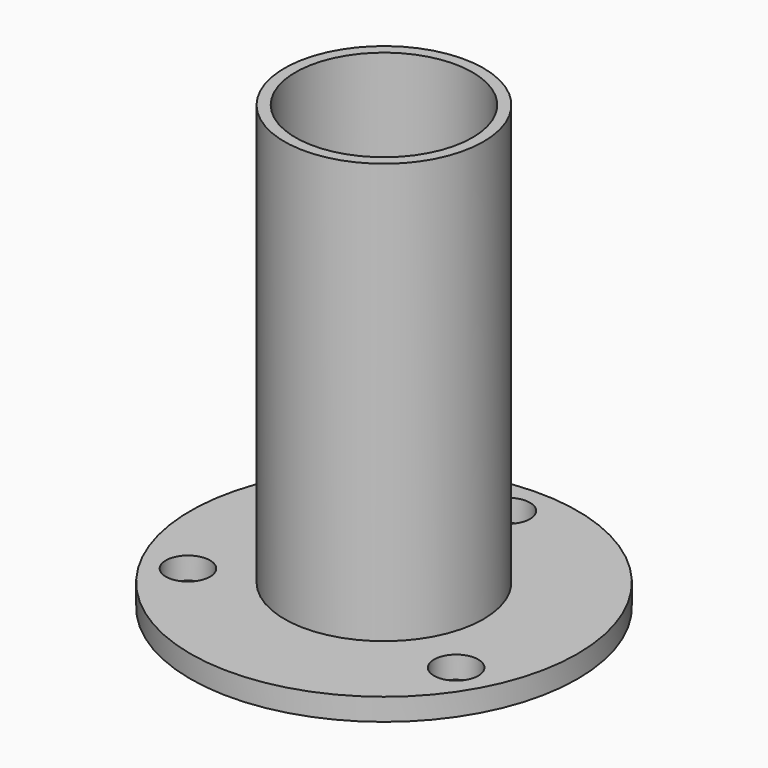
from build123d import *

# Parameters (mm, degrees)
F0_R     = 11.43
F0_R_2   = 10.16
F1_DEPTH = 50.8
F0_R_3   = 22.225
F0_R_4   = 2.54
F2_DEPTH = 2.54
F3_R     = 6.35
F4_DEPTH = 12.7


with BuildPart() as f1:
    # F0 (on Top) → F1 (new body)
    with BuildSketch(Plane.XY):
        Circle(F0_R)
        Circle(F0_R_2, mode=Mode.SUBTRACT)
    extrude(amount=F1_DEPTH)

    # F0 (on Top) → F2 (join)
    with BuildSketch(Plane.XY):
        Circle(F0_R_3)
        with Locations((-15.397932, -8.89)):
            Circle(F0_R_4, mode=Mode.SUBTRACT)
        with Locations((15.397932, -8.89)):
            Circle(F0_R_4, mode=Mode.SUBTRACT)
        Circle(F0_R, mode=Mode.SUBTRACT)
        with Locations((0, 17.78)):
            Circle(F0_R_4, mode=Mode.SUBTRACT)
    extrude(amount=F2_DEPTH)

    # F3 (on Right) → F4 (cut)
    with BuildSketch(Plane.YZ):
        with Locations((0, 19.05)):
            Circle(F3_R)
    extrude(amount=-F4_DEPTH, mode=Mode.SUBTRACT)


solid = f1.part
